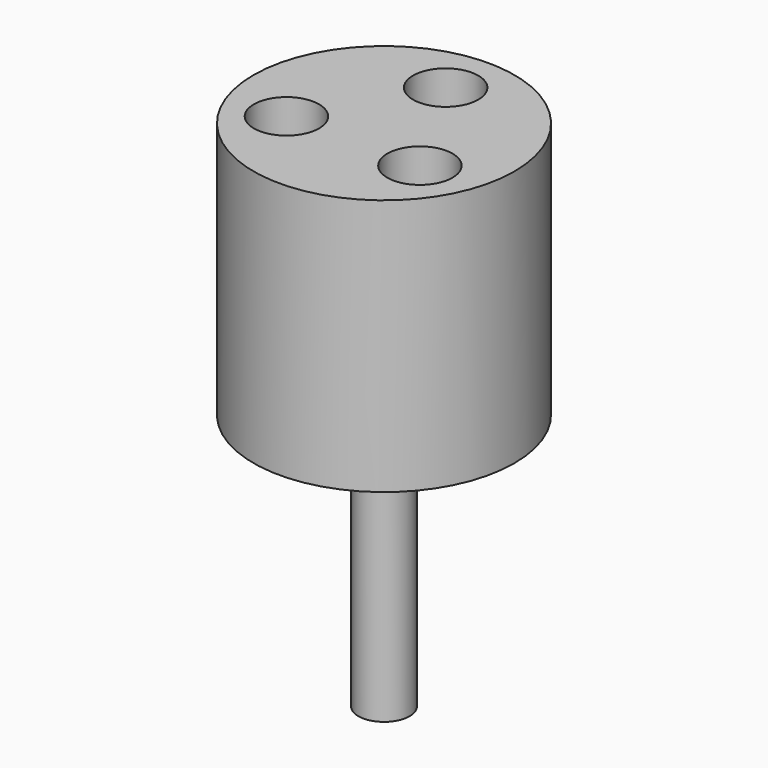
from build123d import *

# Parameters (mm, degrees)
F0_R     = 25.4
F0_R_2   = 6.35
F1_DEPTH = 25
F2_R     = 5
F3_DEPTH = 50


with BuildPart() as f1:
    # F0 (on Top) → F1 (new body, symmetric)
    with BuildSketch(Plane.XY):
        Circle(F0_R)
        with Locations((-12.990381, -7.5)):
            Circle(F0_R_2, mode=Mode.SUBTRACT)
        with Locations((12.990381, -7.5)):
            Circle(F0_R_2, mode=Mode.SUBTRACT)
        with Locations((0, 15)):
            Circle(F0_R_2, mode=Mode.SUBTRACT)
    extrude(amount=F1_DEPTH, both=True)

    # F2 (on face) → F3 (join)
    with BuildSketch(Plane(origin=(0, 0, -25), x_dir=(1, 0, 0), z_dir=(0, 0, -1))):
        Circle(F2_R)
    extrude(amount=F3_DEPTH)


solid = f1.part
